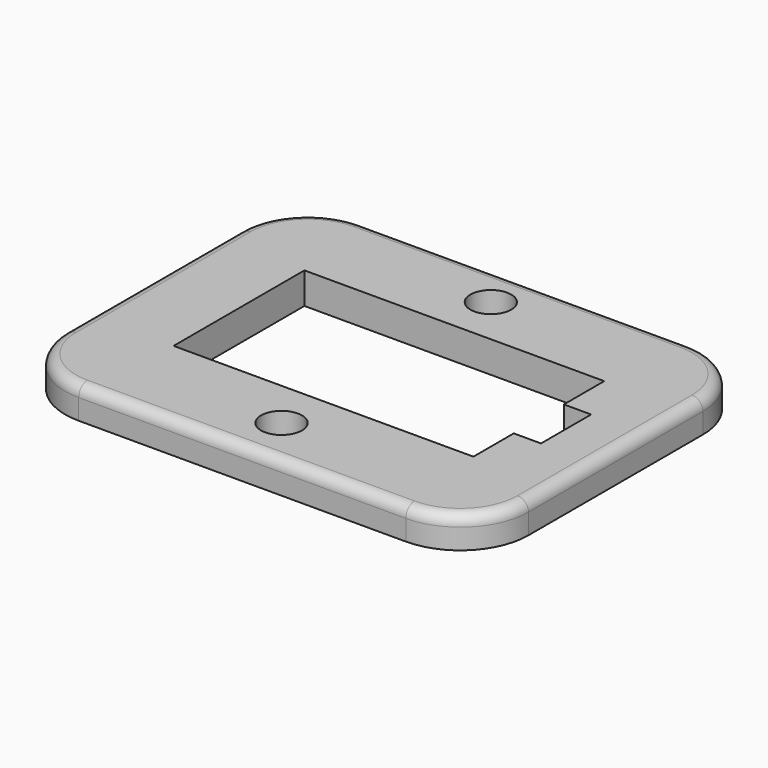
from build123d import *

# Parameters (mm, degrees)
F0_R     = 1.5
F1_DEPTH = 2.3
F2_R     = 0.8


with BuildPart() as f1:
    # F0 (on Top) → F1 (new body)
    with BuildSketch(Plane.XY):
        with BuildLine():
            Line((3.872134, 14.051424), (-20.127866, 14.051424))
            ThreePointArc((-20.127866, 14.051424), (-23.6634, 12.586958), (-25.127866, 9.051424))
            Line((-25.127866, 9.051424), (-25.127866, -6.948576))
            ThreePointArc((-25.127866, -6.948576), (-23.6634, -10.48411), (-20.127866, -11.948576))
            Line((-20.127866, -11.948576), (3.872134, -11.948576))
            ThreePointArc((3.872134, -11.948576), (7.407668, -10.48411), (8.872134, -6.948576))
            Line((8.872134, -6.948576), (8.872134, 9.051424))
            ThreePointArc((8.872134, 9.051424), (7.407668, 12.586958), (3.872134, 14.051424))
        make_face()
        with Locations((-8.127866, -8.348576)):
            Circle(F0_R, mode=Mode.SUBTRACT)
        with Locations((-8.127866, 10.851424)):
            Circle(F0_R, mode=Mode.SUBTRACT)
        Polygon((3.072134, -4.748576), (-18.927866, -4.748576), (-18.927866, 7.251424), (3.072134, 7.251424), (3.072134, 3.551424), (5.072134, 3.551424), (5.072134, 1.251424), (5.072134, -1.048576), (3.072134, -1.048576), align=None, mode=Mode.SUBTRACT)
    extrude(amount=F1_DEPTH)

    # F2
    f2_edges = [f1.edges().sort_by_distance(p)[0] for p in [
        (-23.6634, -10.48411, 2.3),
    ]]
    fillet(f2_edges, radius=F2_R)


solid = f1.part
